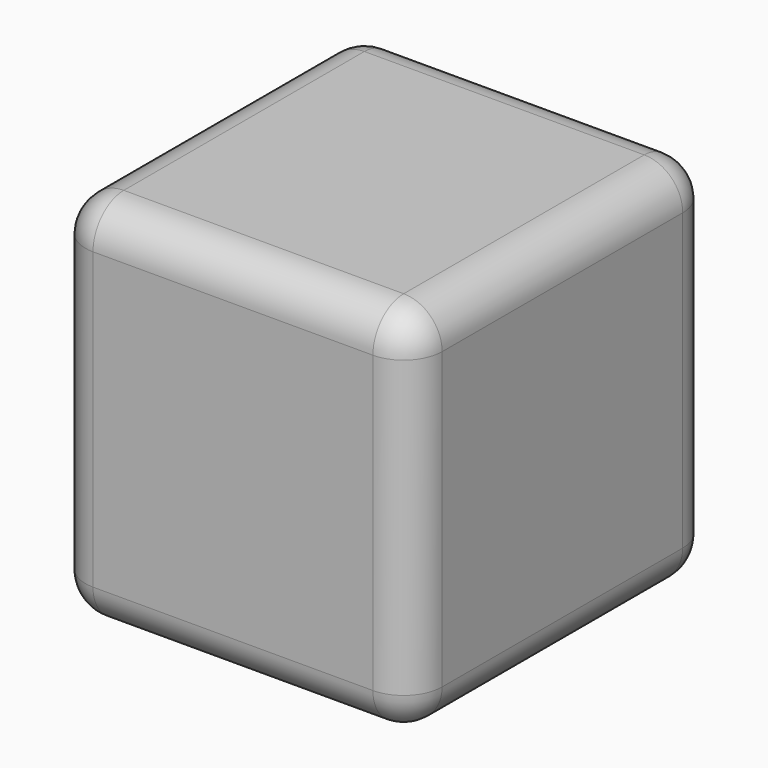
from build123d import *

# Parameters (mm, degrees)
F0_W       = 47.1339412034
F0_H       = 49.880169332
F1_DEPTH   = 49.1529554129
F1_FACE_W  = 47.1339412034
F1_FACE_H  = 49.880169332
F1_FACE1_W = 47.1339412034
F1_FACE1_H = 49.880169332
F3_R       = 5.08


with BuildPart() as f1:
    # F0 (on Top) → F1 (new body)
    with BuildSketch(Plane.XY):
        with Locations((7.0049632341, -4.9151517451)):
            Rectangle(F0_W, F0_H)
    extrude(amount=F1_DEPTH)

    # F1_face (on face) → F2 section 0
    with BuildSketch(Plane(origin=(7.0049632341, -4.9151517451, 0), x_dir=(1, 0, 0), z_dir=(0, 0, -1))):
        Rectangle(F1_FACE_W, F1_FACE_H)
    # F1_face1 (on face) → F2 section 1
    with BuildSketch(Plane(origin=(7.0049632341, -4.9151517451, 49.1529554129), x_dir=(1, 0, 0), z_dir=(0, 0, 1))):
        Rectangle(F1_FACE1_W, F1_FACE1_H)
    loft()

    # F3
    f3_edges = [f1.edges().sort_by_distance(p)[0] for p in [
        (7.004963, 20.024933, 49.152955),
        (-16.562007, -4.915152, 49.152955),
        (7.004963, 20.024933, 0),
        (-16.562007, -4.915152, 0),
        (-16.562007, 20.024933, 24.576478),
        (7.004963, -29.855236, 49.152955),
        (30.571934, -4.915152, 49.152955),
        (-16.562007, -29.855236, 24.576478),
        (30.571934, -29.855236, 24.576478),
        (7.004963, -29.855236, 0),
        (30.571934, 20.024933, 24.576478),
        (30.571934, -4.915152, 0),
    ]]
    fillet(f3_edges, radius=F3_R)


solid = f1.part
